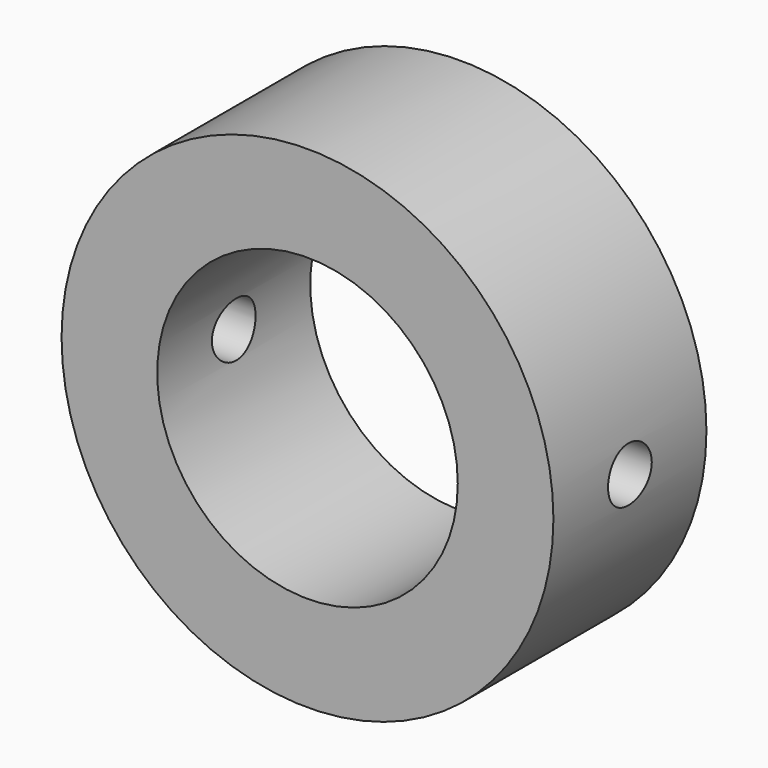
from build123d import *

# Parameters (mm, degrees)
F0_R     = 18
F0_R_2   = 11
F1_DEPTH = 7
F2_R     = 2
F3_DEPTH = 34.8


with BuildPart() as f1:
    # F0 (on Front) → F1 (new body, symmetric)
    with BuildSketch(Plane.XZ):
        Circle(F0_R)
        Circle(F0_R_2, mode=Mode.SUBTRACT)
    extrude(amount=F1_DEPTH, both=True)

    # F2 (on Right) → F3 (cut, symmetric)
    with BuildSketch(Plane.YZ):
        Circle(F2_R)
    extrude(amount=F3_DEPTH, both=True, mode=Mode.SUBTRACT)


solid = f1.part
